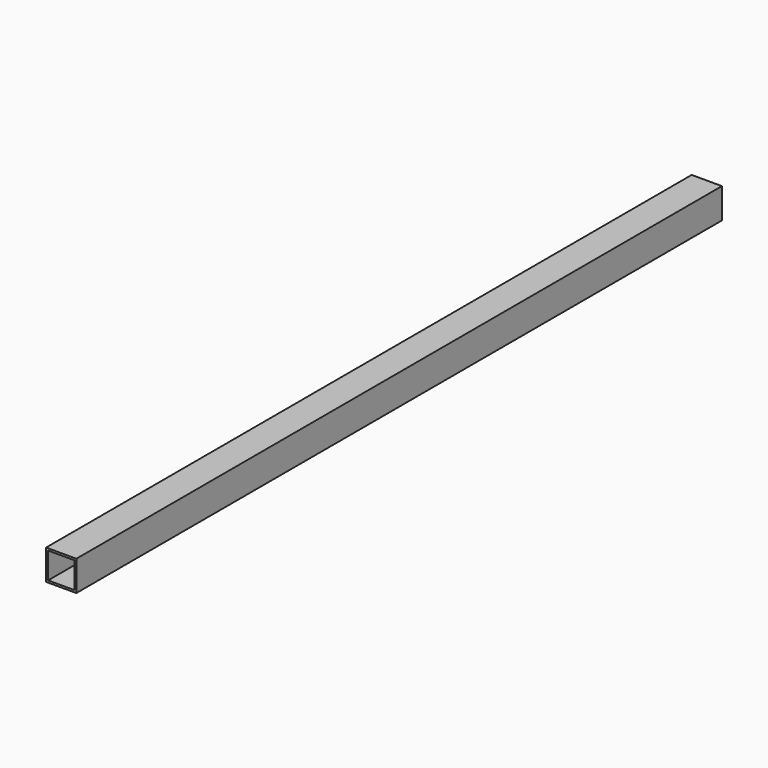
from build123d import *

# Parameters (mm, degrees)
SKETCH_W   = 30
SKETCH_H   = 30
SKETCH_W_2 = 26
SKETCH_H_2 = 26
PAD_DEPTH  = 800


with BuildPart() as part:
    # Sketch → Pad (new body)
    with BuildSketch(Plane.XZ):
        with Locations((15, 15)):
            Rectangle(SKETCH_W, SKETCH_H)
        with Locations((15, 15)):
            Rectangle(SKETCH_W_2, SKETCH_H_2, mode=Mode.SUBTRACT)
    extrude(amount=PAD_DEPTH)


solid = part.part
